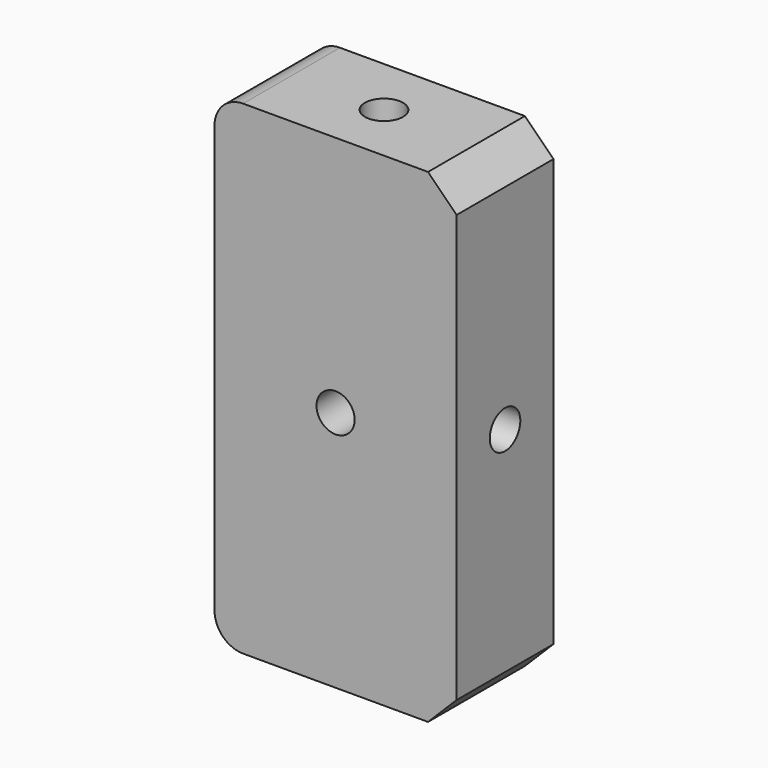
from build123d import *

# Parameters (mm, degrees)
F0_W     = 254
F0_H     = 508
F1_DEPTH = 127
F3_SIZE  = 30
F4_R     = 30
F2_R     = 20
F5_DEPTH = 127.001
F6_R     = 20
F7_DEPTH = 254.001
F8_R     = 20
F9_DEPTH = 508.001


with BuildPart() as f1:
    # F0 (on Front) → F1 (new body)
    with BuildSketch(Plane.XZ):
        Rectangle(F0_W, F0_H)
    extrude(amount=F1_DEPTH)

    # F3
    f3_edges = [f1.edges().sort_by_distance(p)[0] for p in [
        (127, -63.5, 254),
        (127, -63.5, -254),
    ]]
    chamfer(f3_edges, length=F3_SIZE)

    # F4
    f4_edges = [f1.edges().sort_by_distance(p)[0] for p in [
        (-127, -63.5, 254),
        (-127, -63.5, -254),
    ]]
    fillet(f4_edges, radius=F4_R)

    # F2 (on face) → F5 (cut, through all)
    with BuildSketch(Plane.XZ.offset(127)):
        Circle(F2_R)
    extrude(amount=-F5_DEPTH, mode=Mode.SUBTRACT)

    # F6 (on face) → F7 (cut, through all)
    with BuildSketch(Plane(origin=(-127, 0, 0), x_dir=(0, -1, 0), z_dir=(-1, 0, 0))):
        with Locations((63.5, 0)):
            Circle(F6_R)
    extrude(amount=-F7_DEPTH, mode=Mode.SUBTRACT)

    # F8 (on face) → F9 (cut, through all)
    with BuildSketch(Plane.XY.offset(254)):
        with Locations((0, -63.5)):
            Circle(F8_R)
    extrude(amount=-F9_DEPTH, mode=Mode.SUBTRACT)


solid = f1.part
